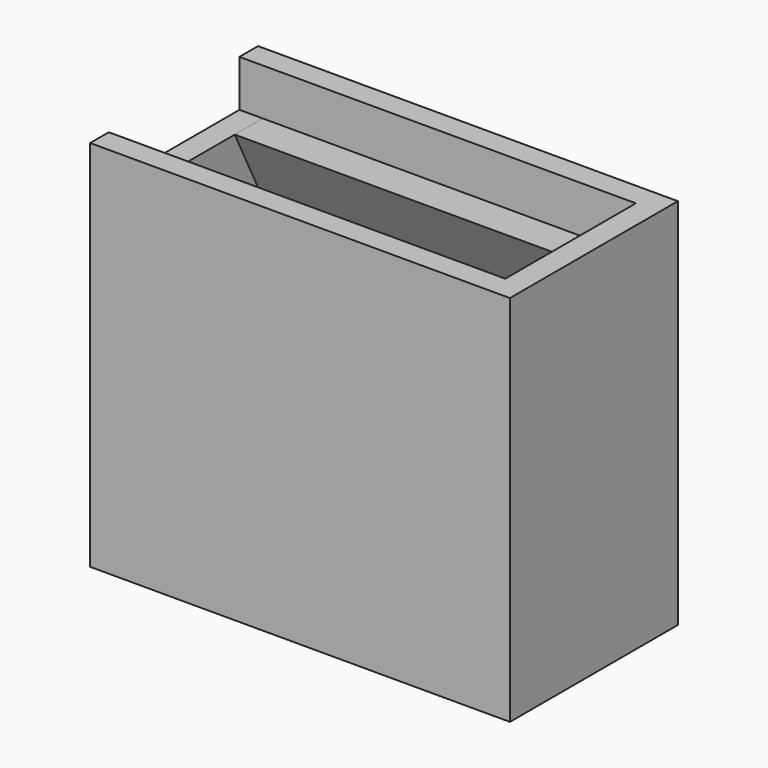
from build123d import *

# Parameters (mm, degrees)
F0_W      = 18
F0_H      = 9
F1_DEPTH  = 14
F2_W      = 16
F2_H      = 7
F3_DEPTH  = 13
F4_W      = 2
F4_H      = 7
F5_DEPTH  = 6
F6_DEPTH  = 9
F8_DEPTH  = 2
F10_DEPTH = 7
F12_DEPTH = 16


with BuildPart() as f1:
    # F0 (on Top) → F1 (new body)
    with BuildSketch(Plane.XY):
        Rectangle(F0_W, F0_H)
    extrude(amount=F1_DEPTH)

    # F2 (on face) → F3 (cut)
    with BuildSketch(Plane.XY.offset(14)):
        Rectangle(F2_W, F2_H)
    extrude(amount=-F3_DEPTH, mode=Mode.SUBTRACT)

    # F4 (on face) → F5 (cut)
    with BuildSketch(Plane(origin=(0, 0, 0), x_dir=(1, 0, 0), z_dir=(0, 0, -1))):
        with Locations((-7, 0)):
            Rectangle(F4_W, F4_H)
    extrude(amount=-F5_DEPTH, mode=Mode.SUBTRACT)

    # F4 (on face) → F6 (cut)
    with BuildSketch(Plane(origin=(0, 0, 0), x_dir=(1, 0, 0), z_dir=(0, 0, -1))):
        with Locations((-7, 0)):
            Rectangle(F4_W, F4_H)
    extrude(amount=-F6_DEPTH, mode=Mode.SUBTRACT)

    # F7 (on face) → F8 (join)
    with BuildSketch(Plane.XY.offset(14)):
        Polygon((9, 4.5), (-9, 4.5), (-9, 3.5), (8, 3.5), (8, -3.5), (-9, -3.5), (-9, -4.5), (9, -4.5), align=None)
    extrude(amount=F8_DEPTH)


with BuildPart() as f10:
    # F9 (on face) → F10 (new body)
    with BuildSketch(Plane(origin=(0, -3.5, 0), x_dir=(-1, 0, 0), z_dir=(0, 1, 0))):
        Polygon((-7, 14), (-8, 14), (-8, 11), align=None)
    extrude(amount=F10_DEPTH)

    # F11 (on face) → F12 (join)
    with BuildSketch(Plane(origin=(8, 0, 0), x_dir=(0, -1, 0), z_dir=(-1, 0, 0))):
        Polygon((3.5, 11), (3.5, 14), (2, 14), align=None)
        Polygon((-3.5, 11), (-2, 14), (-3.5, 14), align=None)
    extrude(amount=F12_DEPTH)


solid = Compound([f1.part, f10.part])
